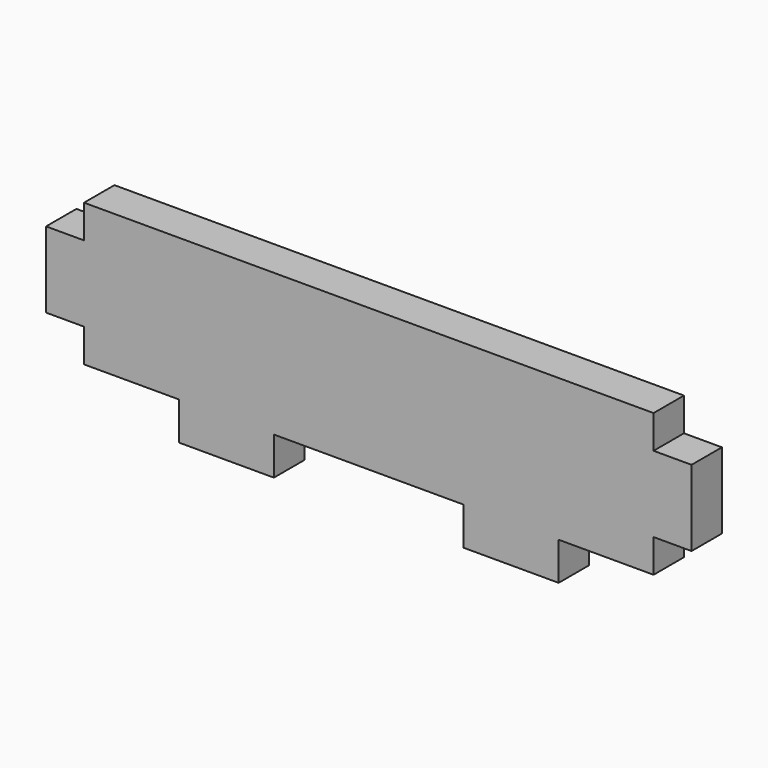
from build123d import *

# Parameters (mm, degrees)
F1_DEPTH = 4


with BuildPart() as f1:
    # F0 (on Front) → F1 (new body)
    with BuildSketch(Plane.XZ):
        Polygon((30, 0), (0, 0), (-30, 0), (-30, -3.5), (-34, -3.5), (-34, -11.5), (-30, -11.5), (-30, -15), (-20, -15), (-20, -19), (-10, -19), (-10, -15), (0, -15), (10, -15), (10, -19), (20, -19), (20, -15), (30, -15), (30, -11.5), (34, -11.5), (34, -3.5), (30, -3.5), align=None)
    extrude(amount=F1_DEPTH)


solid = f1.part
